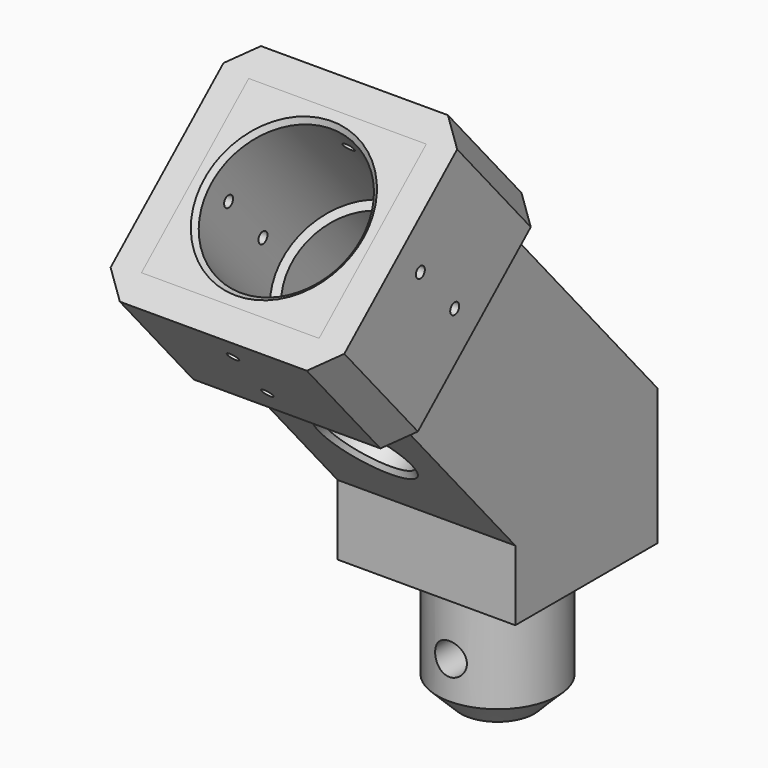
from build123d import *

# Parameters (mm, degrees)
F0_W      = 38
F0_H      = 38
F1_DEPTH  = 15
F2_R      = 12.9
F3_DEPTH  = 28
F4_R      = 3.4
F5_DEPTH  = 21
F7_DEPTH  = 38
F8_R      = 14
F9_DEPTH  = 65
F10_R     = 16.05
F11_DEPTH = 30
F12_W     = 50
F12_H     = 50
F12_R     = 16.05
F13_DEPTH = 30
F14_R     = 9
F15_DEPTH = 109.2397803647
F16_R     = 1.2
F17_DEPTH = 115.2397803647
F18_R     = 1.2
F19_DEPTH = 50.001
F20_SIZE  = 5
F21_SIZE  = 1


with BuildPart() as f1:
    # F0 (on Top) → F1 (new body)
    with BuildSketch(Plane.XY):
        Rectangle(F0_W, F0_H)
    extrude(amount=F1_DEPTH)

    # F2 (on face) → F3 (join)
    with BuildSketch(Plane(origin=(0, 0, 0), x_dir=(1, 0, 0), z_dir=(0, 0, -1))):
        Circle(F2_R)
    extrude(amount=F3_DEPTH)

    # F4 (on Front) → F5 (cut, symmetric)
    with BuildSketch(Plane.XZ):
        with Locations((0, -15)):
            Circle(F4_R)
    extrude(amount=F5_DEPTH, both=True, mode=Mode.SUBTRACT)

    # F6 (on face) → F7 (join)
    with BuildSketch(Plane.YZ.offset(19)):
        Polygon((-71.4847223192, 75.3767664178), (-19, 15), (19, 15), (19, 29.2076178204), (-42.8057582708, 100.3070095195), align=None)
    extrude(amount=-F7_DEPTH)

    # F8 (on face) → F9 (cut)
    with BuildSketch(Plane(origin=(0, -68.0895883757, 78.3281113281), x_dir=(1, 0, 0), z_dir=(0, -0.656059029, 0.7547095802))):
        with Locations((0, 14.5014034106)):
            Circle(F8_R)
    extrude(amount=-F9_DEPTH, mode=Mode.SUBTRACT)

    # F10 (on face) → F11 (cut)
    with BuildSketch(Plane(origin=(0, -68.0895883757, 78.3281113281), x_dir=(1, 0, 0), z_dir=(0, -0.656059029, 0.7547095802))):
        with Locations((0, 14.5014034106)):
            Circle(F10_R)
    extrude(amount=-F11_DEPTH, mode=Mode.SUBTRACT)

    # F12 (on face) → F13 (join)
    with BuildSketch(Plane(origin=(0, -68.0895883757, 78.3281113281), x_dir=(1, 0, 0), z_dir=(0, -0.656059029, 0.7547095802))):
        with Locations((0, 14.5014034106)):
            Rectangle(F12_W, F12_H)
        with Locations((0, 14.5014034106)):
            Circle(F12_R, mode=Mode.SUBTRACT)
    extrude(amount=-F13_DEPTH)

    # F14 (on face) → F15 (cut, through all)
    with BuildSketch(Plane(origin=(0, 25.2838301049, 21.9788981914), x_dir=(-1, 0, 0), z_dir=(0, 0.7547095802, 0.656059029))):
        with Locations((0, 48.7857652542)):
            Circle(F14_R)
    extrude(amount=-F15_DEPTH, mode=Mode.SUBTRACT)

    # F16 (on face) → F17 (cut, through all)
    with BuildSketch(Plane(origin=(0, 29.8120875862, 25.9152523653), x_dir=(-1, 0, 0), z_dir=(0, 0.7547095802, 0.656059029))):
        with Locations((0, 95.7857652542)):
            Circle(F16_R)
        with Locations((0, 81.7857652542)):
            Circle(F16_R)
    extrude(amount=-F17_DEPTH, mode=Mode.SUBTRACT)

    # F18 (on face) → F19 (cut, through all)
    with BuildSketch(Plane.YZ.offset(25)):
        with Locations((-51.8967680631, 81.8042113269)):
            Circle(F18_R)
        with Locations((-42.7119416572, 71.2382772037)):
            Circle(F18_R)
    extrude(amount=-F19_DEPTH, mode=Mode.SUBTRACT)

    # F20
    f20_edges = [f1.edges().sort_by_distance(p)[0] for p in [
        (-12.9, 0, -28),
        (25, -28.436615, 92.92272),
        (25, -66.172094, 60.119769),
        (-25, -66.172094, 60.119769),
        (-25, -28.436615, 92.92272),
    ]]
    chamfer(f20_edges, length=F20_SIZE)

    # F21
    f21_edges = [f1.edges().sort_by_distance(p)[0] for p in [
        (-16.05, -57.14524, 87.841888),
        (9, -35.401476, 33.86774),
        (9, -6.722512, 58.797983),
    ]]
    chamfer(f21_edges, length=F21_SIZE)


solid = f1.part
